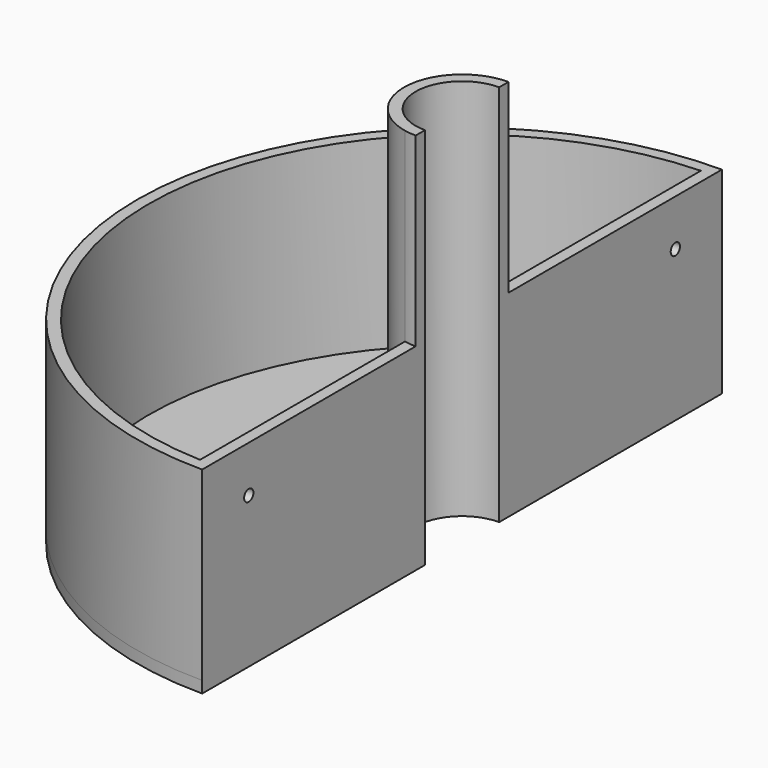
from build123d import *

# Parameters (mm, degrees)
F1_DEPTH = 3.175
F3_DEPTH = 50.8
F5_DEPTH = 50.8
F6_R     = 1.5875
F7_DEPTH = 3.175


with BuildPart() as f1:
    # F0 (on Top) → F1 (new body)
    with BuildSketch(Plane.XY):
        with BuildLine():
            Line((0, 12.7), (0, 88.9))
            ThreePointArc((0, 88.9), (-88.9, 0), (0, -88.9))
            Line((0, -88.9), (0, -12.7))
            ThreePointArc((0, -12.7), (-12.7, 0), (0, 12.7))
        make_face()
    extrude(amount=F1_DEPTH)

    # F2 (on face) → F3 (join)
    with BuildSketch(Plane.XY.offset(3.175)):
        with BuildLine():
            ThreePointArc((0, -12.7), (-12.7, 0), (0, 12.7))
            Line((0, 12.7), (0, 88.9))
            ThreePointArc((0, 88.9), (-62.861793, 62.861793), (-88.9, 0))
            ThreePointArc((-88.9, 0), (-62.861793, -62.861793), (0, -88.9))
            Line((0, -88.9), (0, -12.7))
        make_face()
        with BuildLine():
            ThreePointArc((-13.243587, 8.753459), (-14.666588, -6.075099), (-3.175, -15.55426))
            Line((-3.175, -15.55426), (-3.175, -85.666184))
            ThreePointArc((-3.175, -85.666184), (-79.199573, -32.805537), (-62.820203, 58.330075))
            Line((-62.820203, 58.330075), (-13.243587, 8.753459))
        make_face(mode=Mode.SUBTRACT)
        with BuildLine():
            Line((-3.175, 85.666184), (-3.175, 15.55426))
            ThreePointArc((-3.175, 15.55426), (-7.51846, 13.981716), (-11.22532, 11.22532))
            Line((-11.22532, 11.22532), (-60.616729, 60.616729))
            ThreePointArc((-60.616729, 60.616729), (-34.26682, 78.578373), (-3.175, 85.666184))
        make_face(mode=Mode.SUBTRACT)
    extrude(amount=F3_DEPTH)

    # F4 (on face) → F5 (join)
    with BuildSketch(Plane.XY.offset(53.975)):
        with BuildLine():
            ThreePointArc((0, -12.7), (-12.7, 0), (0, 12.7))
            Line((0, 12.7), (0, 15.875))
            ThreePointArc((0, 15.875), (-1.59558, 15.794611), (-3.175, 15.55426))
            ThreePointArc((-3.175, 15.55426), (-7.51846, 13.981716), (-11.22532, 11.22532))
            ThreePointArc((-11.22532, 11.22532), (-12.296722, 10.040232), (-13.243587, 8.753459))
            ThreePointArc((-13.243587, 8.753459), (-14.666588, -6.075099), (-3.175, -15.55426))
            ThreePointArc((-3.175, -15.55426), (-1.59558, -15.794611), (0, -15.875))
            Line((0, -15.875), (0, -12.7))
        make_face()
    extrude(amount=F5_DEPTH)

    # F6 (on face) → F7 (cut)
    with BuildSketch(Plane(origin=(-3.175, 0, 0), x_dir=(0, -1, 0), z_dir=(-1, 0, 0))):
        with Locations((72.966184, 41.275)):
            Circle(F6_R)
        with Locations((-72.966184, 41.275)):
            Circle(F6_R)
    extrude(amount=-F7_DEPTH, mode=Mode.SUBTRACT)


solid = f1.part
